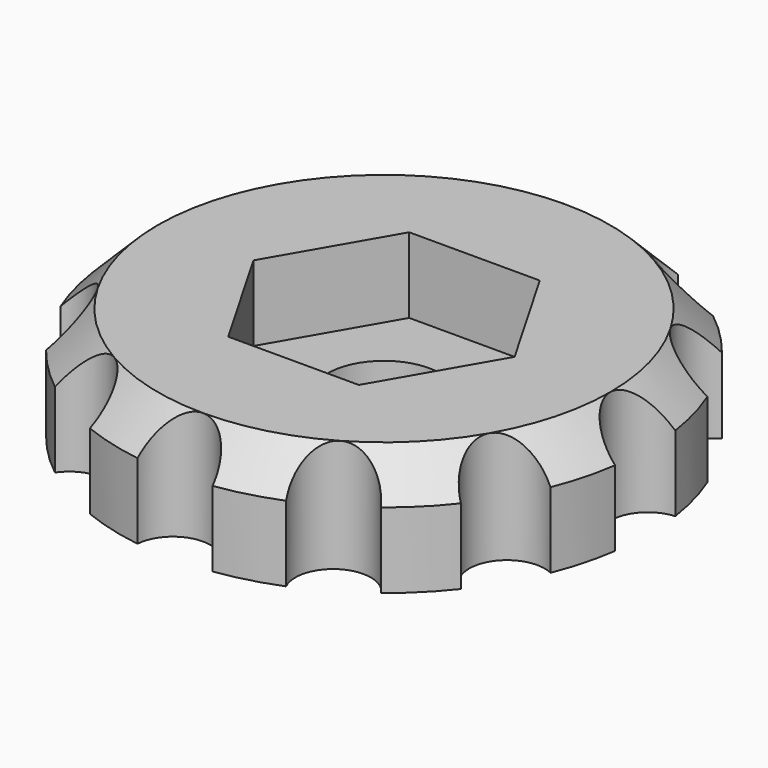
from build123d import *

# Parameters (mm, degrees)
CYLINDER028_R     = 1
CYLINDER028_DEPTH = 10
ARRAY001_COUNT    = 12
CYLINDER027_R     = 1.5
CYLINDER027_DEPTH = 10
CYLINDER026_R     = 7
CYLINDER026_DEPTH = 3
POCKET009_DEPTH   = 2
CHAMFER010_SIZE   = 1


with BuildPart() as array001:
    # Cylinder028 → Cylinder028 (new body)
    with BuildSketch(Plane(origin=(7, 0, -2), x_dir=(1, 0, 0), z_dir=(0, 0, 1))):
        Circle(CYLINDER028_R)
    extrude(amount=CYLINDER028_DEPTH)

    # Array001: Array001 ×12 about axis
    array001_axis = Axis((0, 0, 0), (0, 0, 1))


with BuildPart() as array001_1:
    add(array001.part)
    for i in range(1, ARRAY001_COUNT):
        add(array001.part.rotate(array001_axis, i * 360 / ARRAY001_COUNT))


with BuildPart() as cilindro019:
    # Cylinder027 → Cylinder027 (new body)
    with BuildSketch(Plane.XY.offset(-2)):
        Circle(CYLINDER027_R)
    extrude(amount=CYLINDER027_DEPTH)


with BuildPart() as cut015:
    # Cylinder026 → Cylinder026 (new body)
    with BuildSketch(Plane.XY):
        Circle(CYLINDER026_R)
    extrude(amount=CYLINDER026_DEPTH)

    # Sketch004 → Pocket009 (cut)
    with BuildSketch(Plane.XY.offset(3)):
        Polygon((-3.464093, 0), (-1.732049, 3), (1.732049, 3), (3.464093, 0), (1.732049, -3), (-1.732049, -3), align=None)
    extrude(amount=-POCKET009_DEPTH, mode=Mode.SUBTRACT)

    # Chamfer010
    chamfer010_edges = [cut015.edges().sort_by_distance(p)[0] for p in [
        (-7, 0, 3),
    ]]
    chamfer(chamfer010_edges, length=CHAMFER010_SIZE)

    # Cut014: cut Cilindro019
    add(cilindro019.part, mode=Mode.SUBTRACT)

    # Cut015: cut Array001
    add(array001_1.part, mode=Mode.SUBTRACT)


with BuildPart() as cut015_1:
    # Cut015 placement: moved
    add(cut015.part.moved(Location((168, 50, 157))))


solid = cut015_1.part
